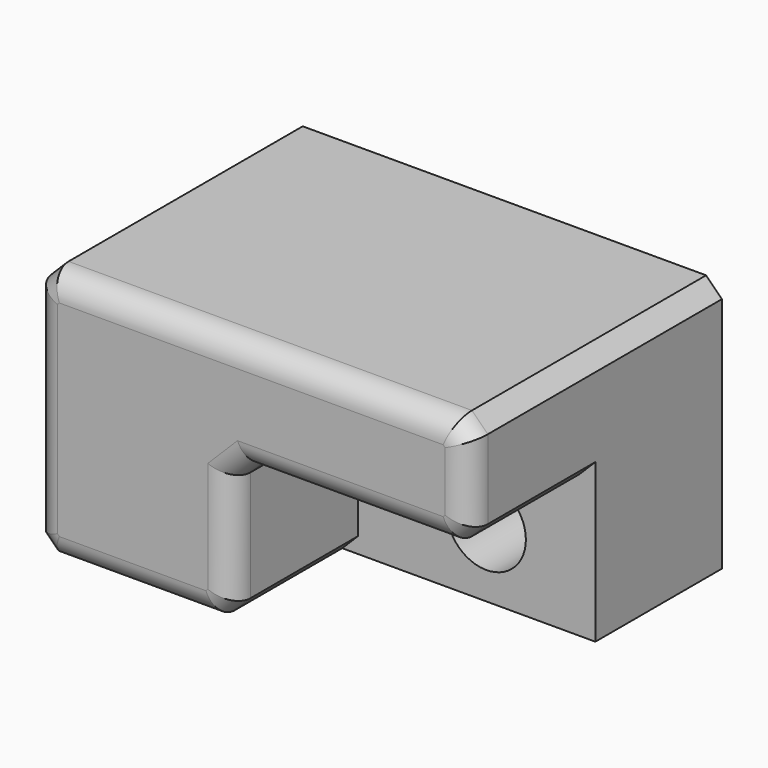
from build123d import *

# Parameters (mm, degrees)
F0_W     = 55
F0_H     = 32
F1_DEPTH = 40
F2_W     = 30
F2_H     = 18
F3_DEPTH = 20
F4_R     = 5
F5_DEPTH = 20.001
F6_SIZE  = 2
F7_R     = 3


with BuildPart() as f1:
    # F0 (on Front) → F1 (new body)
    with BuildSketch(Plane.XZ):
        with Locations((27.5, -16)):
            Rectangle(F0_W, F0_H)
    extrude(amount=F1_DEPTH)

    # F2 (on face) → F3 (cut)
    with BuildSketch(Plane.XZ.offset(40)):
        with Locations((40, -23)):
            Rectangle(F2_W, F2_H)
    extrude(amount=-F3_DEPTH, mode=Mode.SUBTRACT)

    # F4 (on face) → F5 (cut, through all)
    with BuildSketch(Plane.XZ.offset(20)):
        with Locations((41.2149988763, -23.5055347287)):
            Circle(F4_R)
    extrude(amount=-F5_DEPTH, mode=Mode.SUBTRACT)

    # F6
    f6_edges = [f1.edges().sort_by_distance(p)[0] for p in [
        (0, -20, -32),
        (25, -30, -32),
        (25, -30, -14),
        (55, -20, 0),
        (55, -30, -14),
        (0, -20, 0),
    ]]
    chamfer(f6_edges, length=F6_SIZE)

    # F7
    f7_edges = [f1.edges().sort_by_distance(p)[0] for p in [
        (25, -40, -23),
        (24, -40, -31),
        (12.5, -40, -32),
        (0, -40, -16),
        (55, -40, -7),
        (54, -40, -13),
        (54, -40, -1),
        (40, -40, -14),
        (27.5, -40, 0),
        (26, -40, -15),
        (1, -40, -1),
        (1, -40, -31),
    ]]
    fillet(f7_edges, radius=F7_R)


solid = f1.part
